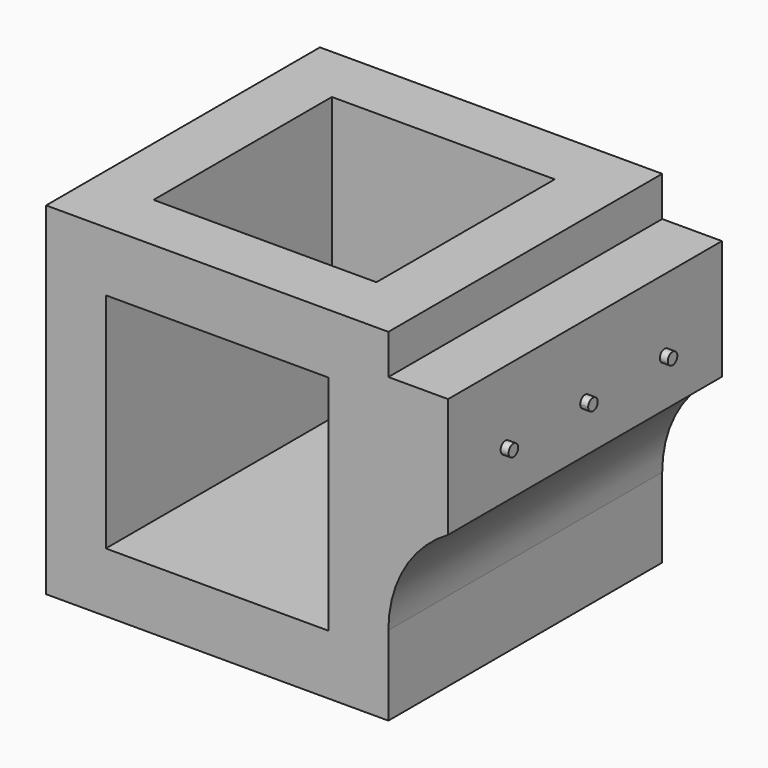
from build123d import *

# Parameters (mm, degrees)
F0_W          = 43
F0_H          = 43
F1_DEPTH      = 43
F1_DEPTH_BACK = 43
F2_W          = 28
F2_H          = 28
F3_DEPTH      = 71
F4_W          = 28
F4_H          = 28
F5_DEPTH      = 71
F7_DEPTH      = 15
F9_DEPTH      = 100
F10_R         = 1.5
F11_DEPTH     = 2


with BuildPart() as f1:
    # F0 (on Top) → F1 (new body, two sides)
    with BuildSketch(Plane.XY) as f1_sk:
        Polygon((0, 43), (0, 0), (-43, 0), (-43, -43), (0, -43), (43, -43), (43, 0), (43, 43), align=None)
        with Locations((-21.5, 21.5)):
            Rectangle(F0_W, F0_H)
        with Locations((-21.5, 21.5)):
            Rectangle(F0_W, F0_H)
    extrude(amount=F1_DEPTH)
    extrude(f1_sk.sketch, amount=-F1_DEPTH_BACK)

    # F2 (on face) → F3 (cut)
    with BuildSketch(Plane.XY.offset(43)):
        with Locations((-14, 14)):
            Rectangle(F2_W, F2_H)
        Polygon((0, 28), (0, 0), (-28, 0), (-28, -28), (0, -28), (28, -28), (28, 0), (28, 28), align=None)
    extrude(amount=-F3_DEPTH, mode=Mode.SUBTRACT)

    # F4 (on face) → F5 (cut)
    with BuildSketch(Plane.XZ.offset(43)):
        with Locations((-14, 14)):
            Rectangle(F4_W, F4_H)
        Polygon((0, 28), (0, 0), (-28, 0), (-28, -28), (0, -28), (28, -28), (28, 0), (28, 28), align=None)
    extrude(amount=-F5_DEPTH, mode=Mode.SUBTRACT)

    # F6 (on face) → F7 (join)
    with BuildSketch(Plane.YZ.offset(43)):
        Polygon((0, -23), (0, 0), (0, 33), (-43, 33), (-43, -23), align=None)
        Polygon((0, 33), (0, 0), (0, -23), (43, -23), (43, 33), align=None)
    extrude(amount=F7_DEPTH)

    # F8 (on face) → F9 (cut)
    with BuildSketch(Plane.XZ.offset(43)):
        with BuildLine():
            Line((68, 7), (68, 6.5803989155))
            ThreePointArc((68, 6.5803989155), (70.4912121916, 6.8949156836), (73, 7))
            Line((73, 7), (68, 7))
        make_face()
        with BuildLine():
            ThreePointArc((58, 2.9807621135), (47.0192378865, -8), (43, -23))
            Line((43, -23), (58, -23))
            Line((58, -23), (58, 2.9807621135))
        make_face()
    extrude(amount=-F9_DEPTH, mode=Mode.SUBTRACT)

    # F10 (on face) → F11 (join)
    with BuildSketch(Plane.YZ.offset(58)):
        with BuildLine():
            ThreePointArc((-1.5, 15), (-1.0606601718, 13.9393398282), (0, 13.5))
            Line((0, 13.5), (0, 15))
            Line((0, 15), (-1.5, 15))
        make_face()
        with BuildLine():
            Line((-1.5, 15), (0, 15))
            Line((0, 15), (1.5, 15))
            ThreePointArc((1.5, 15), (0, 16.5), (-1.5, 15))
        make_face()
        with BuildLine():
            Line((0, 15), (0, 13.5))
            ThreePointArc((0, 13.5), (1.0606601718, 13.9393398282), (1.5, 15))
            Line((1.5, 15), (0, 15))
        make_face()
        with Locations((-25, 15)):
            Circle(F10_R)
        with BuildLine():
            ThreePointArc((26.5, 15), (25, 16.5), (23.5, 15))
            ThreePointArc((23.5, 15), (25, 13.5), (26.5, 15))
        make_face()
    extrude(amount=F11_DEPTH)


solid = f1.part
